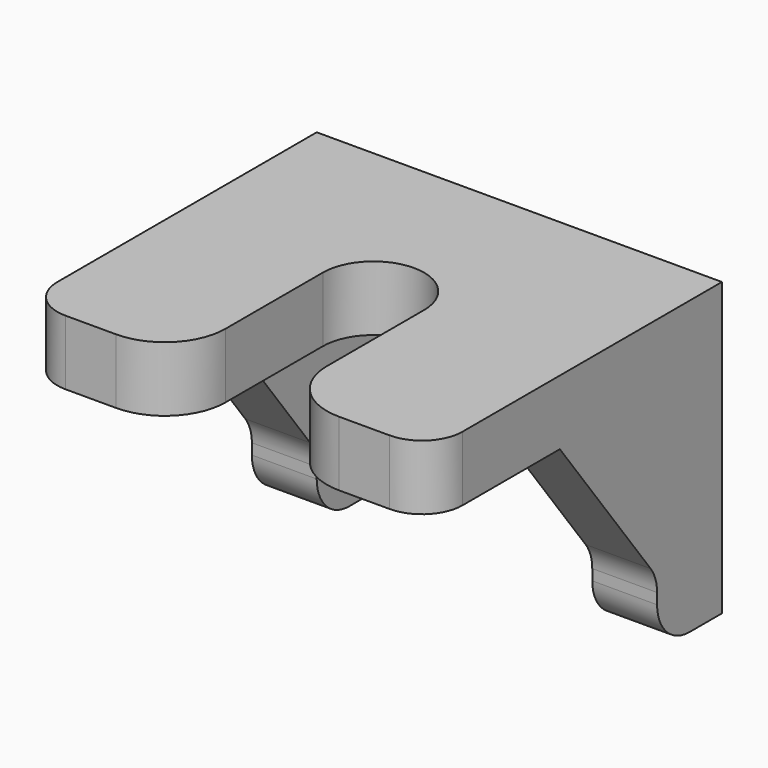
from build123d import *

# Parameters (mm, degrees)
PAD076_DEPTH            = 1.6
PAD077_DEPTH            = 1.6
LINEARPATTERN008_COUNT  = 2
LINEARPATTERN008_PITCH  = 8.4
FILLET032_R             = 1
FILLET033_R             = 1
FILLET034_R             = 1
FILLET003_R             = 1.5
BODY024_PLACEMENT_ANGLE = 90


with BuildPart() as part:
    # Sketch106 → Pad076 (new body)
    with BuildSketch(Plane.XY):
        with BuildLine():
            Line((-4.5, 5), (4.5, 5))
            Line((4.5, 5), (4.5, 1.25))
            Line((0, 1.25), (4.5, 1.25))
            ThreePointArc((0, 1.25), (-1.25, 0), (0, -1.25))
            Line((4.5, -1.25), (0, -1.25))
            Line((4.5, -1.25), (4.5, -5))
            Line((4.5, -5), (-4.5, -5))
            Line((-4.5, -5), (-4.5, 5))
        make_face()
    extrude(amount=PAD076_DEPTH)

    # Sketch107 (on DatumPlane) → Pad077 (join)
    with BuildSketch(Plane.XZ.offset(5)):
        Polygon((-4.5, 0), (-4.5, -5.6), (-2.5, -5.6), (-2.5, -4), (0.5, 0), align=None)
    pad077 = extrude(amount=-PAD077_DEPTH)

    # LinearPattern008: Pad077 ×2
    with Locations(*[(0, i * LINEARPATTERN008_PITCH, 0) for i in range(1, LINEARPATTERN008_COUNT)]):
        add(pad077)

    # Fillet032
    fillet032_edges = [part.edges().sort_by_distance(p)[0] for p in [
        (-2.5, -4.2, -5.6),
        (-2.5, 4.2, -5.6),
    ]]
    fillet(fillet032_edges, radius=FILLET032_R)

    # Fillet033
    fillet033_edges = [part.edges().sort_by_distance(p)[0] for p in [
        (-2.5, -4.2, -4),
        (-2.5, 4.2, -4),
    ]]
    fillet(fillet033_edges, radius=FILLET033_R)

    # Fillet034
    fillet034_edges = [part.edges().sort_by_distance(p)[0] for p in [
        (4.5, -5, 0.8),
        (4.5, 5, 0.8),
    ]]
    fillet(fillet034_edges, radius=FILLET034_R)

    # Fillet003
    fillet003_edges = [part.edges().sort_by_distance(p)[0] for p in [
        (4.5, -1.25, 0.8),
        (4.5, 1.25, 0.8),
    ]]
    fillet(fillet003_edges, radius=FILLET003_R)


with BuildPart() as part_1:
    # Body024 placement: moved
    add(part.part.moved(Location((22.4, -32.5, 16.4))).rotate(Axis((22.4, -32.5, 16.4), (0, 0, -1)), BODY024_PLACEMENT_ANGLE))


solid = part_1.part
